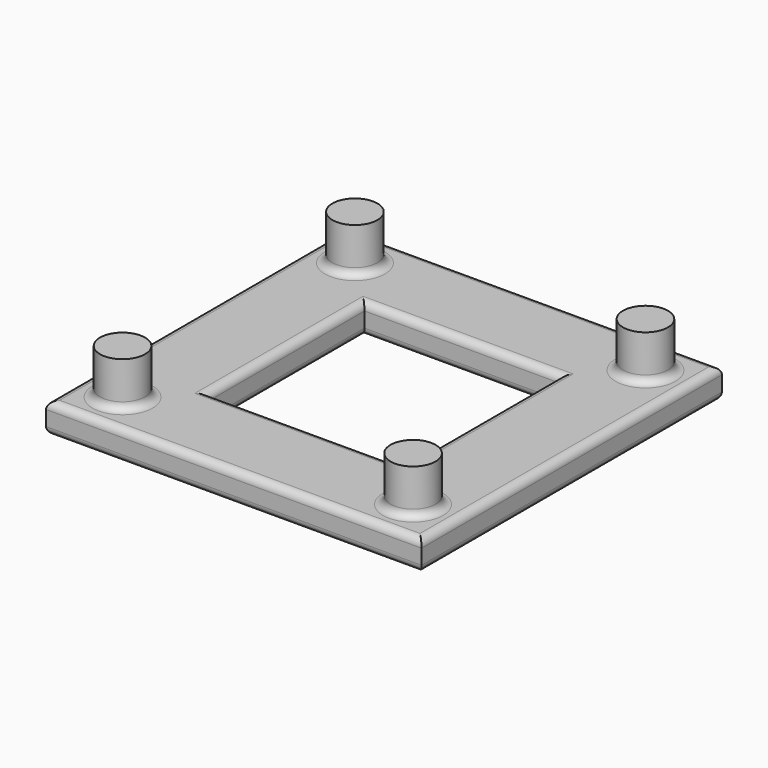
from build123d import *

# Parameters (mm, degrees)
SKETCH009_W             = 50
SKETCH009_H             = 50
PAD003_DEPTH            = 4
SKETCH010_W             = 26
SKETCH010_H             = 26
POCKET003_DEPTH         = 10
SKETCH011_R             = 3
PAD004_DEPTH            = 6
POLARPATTERN003_COUNT   = 4
SKETCH012_R             = 1
POCKET004_DEPTH         = 8
POLARPATTERN004_COUNT   = 4
FILLET015_R             = 1
FILLET016_R             = 1
BODY002_PLACEMENT_ANGLE = 180


with BuildPart() as part:
    # Sketch009 → Pad003 (new body)
    with BuildSketch(Plane.XY):
        Rectangle(SKETCH009_W, SKETCH009_H)
    extrude(amount=PAD003_DEPTH)

    # Sketch010 (on Face6 of Pad003) → Pocket003 (cut)
    with BuildSketch(Plane.XY.offset(4)):
        Rectangle(SKETCH010_W, SKETCH010_H)
    extrude(amount=-POCKET003_DEPTH, mode=Mode.SUBTRACT)

    # Sketch011 (on Face4 of Pocket003) → Pad004 (join)
    with BuildSketch(Plane(origin=(0, 0, 0), x_dir=(1, 0, 0), z_dir=(0, 0, -1))):
        with Locations((-19.343146, 19.343146)):
            Circle(SKETCH011_R)
    pad004 = extrude(amount=PAD004_DEPTH)

    # PolarPattern003: Pad004 ×4 about axis
    polarpattern003_axis = Axis((0, 0, 0), (0, 0, -1))
    for i in range(1, POLARPATTERN003_COUNT):
        add(pad004.rotate(polarpattern003_axis, i * 360 / POLARPATTERN003_COUNT))

    # Sketch012 (on Face5 of PolarPattern003) → Pocket004 (cut)
    with BuildSketch(Plane.XY.offset(4)):
        with Locations((-19.343146, 19.343146)):
            Circle(SKETCH012_R)
    pocket004 = extrude(amount=-POCKET004_DEPTH, mode=Mode.SUBTRACT)

    # PolarPattern004: Pocket004 ×4 about axis
    polarpattern004_axis = Axis((0, 0, 4), (0, 0, 1))
    for i in range(1, POLARPATTERN004_COUNT):
        add(pocket004.rotate(polarpattern004_axis, i * 360 / POLARPATTERN004_COUNT), mode=Mode.SUBTRACT)

    # Fillet015
    fillet015_edges = [part.edges().sort_by_distance(p)[0] for p in [
        (-25, 0, 0),
        (0, -25, 0),
        (0, 25, 0),
        (25, 0, 0),
        (-22.343146, -19.343146, 0),
        (19.343146, -22.343146, 0),
        (0, -13, 0),
        (13, 0, 0),
        (-13, 0, 0),
        (0, 13, 0),
        (-19.343146, 22.343146, 0),
        (22.343146, 19.343146, 0),
    ]]
    fillet(fillet015_edges, radius=FILLET015_R)

    # Fillet016
    fillet016_edges = [part.edges().sort_by_distance(p)[0] for p in [
        (-25, 0, 4),
        (0, -25, 4),
        (0, 25, 4),
        (25, 0, 4),
        (-19.343146, -20.343146, 4),
        (20.343146, -19.343146, 4),
        (-20.343146, 19.343146, 4),
        (0, -13, 4),
        (13, 0, 4),
        (-13, 0, 4),
        (0, 13, 4),
        (19.343146, 20.343146, 4),
    ]]
    fillet(fillet016_edges, radius=FILLET016_R)


with BuildPart() as part_1:
    # Body002 placement: moved
    add(part.part.moved(Location((0, 0, 22))).rotate(Axis((0, 0, 22), (1, 0, 0)), BODY002_PLACEMENT_ANGLE))


solid = part_1.part
